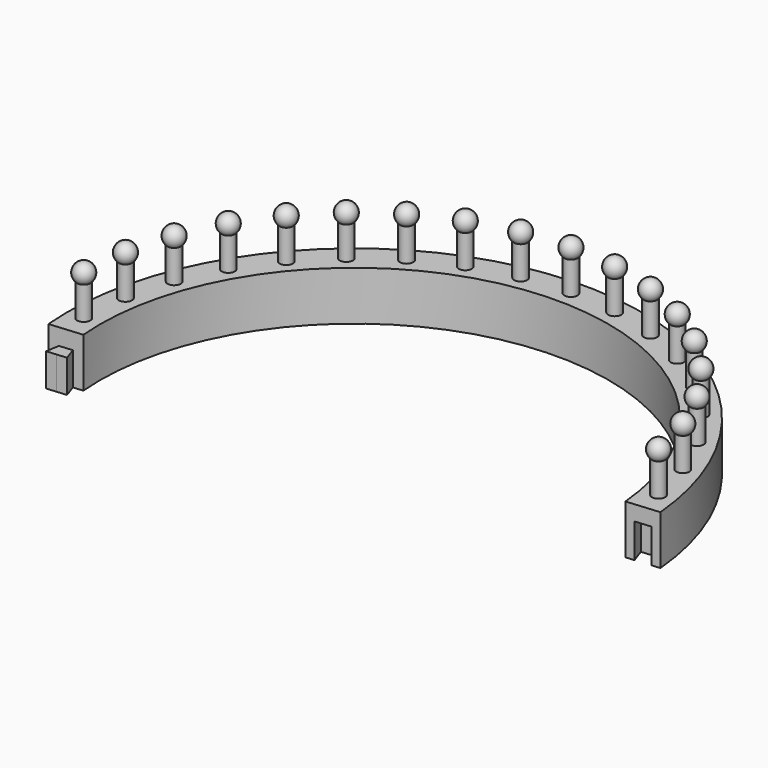
from build123d import *

# Parameters (mm, degrees)
F0_R      = 87.5
F0_R_2    = 77.5
F1_DEPTH  = 15
F4_COUNT  = 36
F6_DEPTH  = 30.2370679775
F8_DEPTH  = 10
F10_DEPTH = 10.4


with BuildPart() as f1:
    # F0 (on Top) → F1 (new body)
    with BuildSketch(Plane.XY):
        Circle(F0_R)
        Circle(F0_R_2, mode=Mode.SUBTRACT)
    extrude(amount=F1_DEPTH)

    # F2 (on Front) → F3 (revolve)
    with BuildSketch(Plane.XZ):
        with BuildLine():
            Line((-82.5, 15), (-80.5, 15))
            Line((-80.5, 15), (-80.5, 25))
            ThreePointArc((-80.5, 25), (-79.6974829231, 28.3065342468), (-82.5, 30.2360679775))
            Line((-82.5, 30.2360679775), (-82.5, 15))
        make_face()
    revolve(axis=Axis((-82.5, 0, 22.6180339887), (0, 0, -1)))

    # F4: F1 ×36 about axis
    f4_axis = Axis((0, 0, 15), (0, 0, 1))


with BuildPart() as f1_1:
    add(f1.part)
    for i in range(1, F4_COUNT):
        add(f1.part.rotate(f4_axis, i * 360 / F4_COUNT))

    # F5 (on Top) → F6 (cut, through all)
    with BuildSketch(Plane.XY):
        Polygon((95.4070592886, 8.3470361081), (-95.4070592886, -8.3470361081), (-95.4070592886, -98.1738418341), (95.4070592886, -98.1738418341), align=None)
    extrude(amount=F6_DEPTH, mode=Mode.SUBTRACT)

    # F7 (on Top) → F8 (join)
    with BuildSketch(Plane.XY):
        Polygon((-78.8488555273, -10.9136603408), (-80.1936731964, -7.0160372912), (-82.1860625926, -7.1903487767), (-84.1784519888, -7.3646602622), (-84.8260237159, -11.4365947973), (-81.8374396216, -11.175127569), align=None)
    extrude(amount=F8_DEPTH)

    # F9 (on Top) → F10 (cut)
    with BuildSketch(Plane.XY):
        Polygon((82.1860625926, 7.1903487767), (84.1784519888, 7.3646602622), (84.5891935851, 7.4005954955), (85.301522485, 11.8797234841), (81.8025773245, 11.5736054483), (78.303632164, 11.2674874124), (79.7829316, 6.9801020579), (80.1936731964, 7.0160372912), align=None)
    extrude(amount=F10_DEPTH, mode=Mode.SUBTRACT)


solid = f1_1.part
